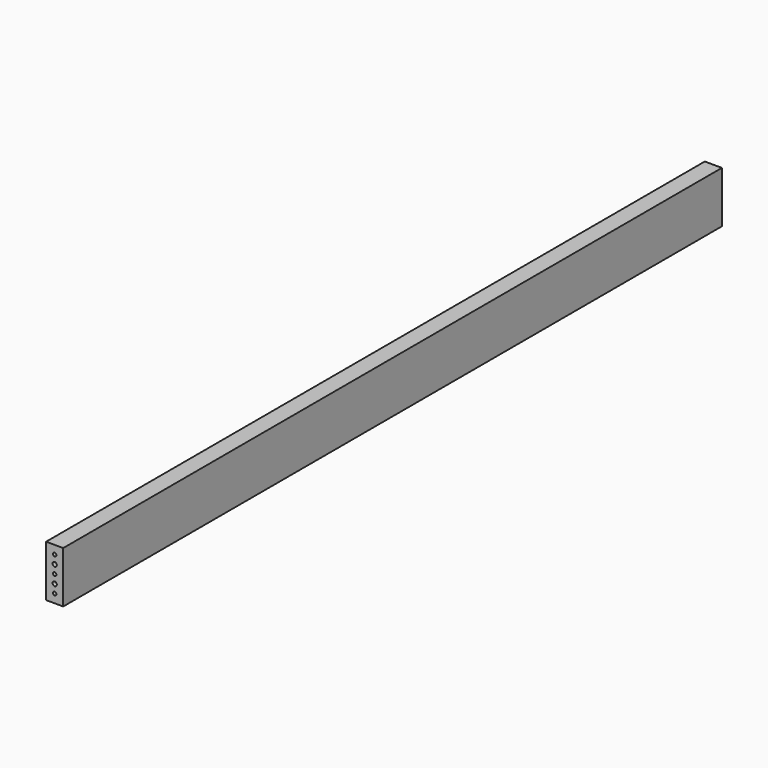
from build123d import *

# Parameters (mm, degrees)
F0_W     = 25.4
F0_H     = 76.2
F1_DEPTH = 1219.2
F3_D     = 5.1054
F3_DEPTH = 12.7
F3_TIP   = 1.5338169022
F4_D     = 6.3373
F4_DEPTH = 12.7
F4_TIP   = 1.9039170005


with BuildPart() as f1:
    # F0 (on Front) → F1 (new body)
    with BuildSketch(Plane.XZ):
        with Locations((12.7, 38.1)):
            Rectangle(F0_W, F0_H)
    extrude(amount=F1_DEPTH)

    # F3
    with Locations(Plane.XZ.offset(1219.2)):
        with Locations((12.7, 63.5), (12.7, 38.1), (12.7, 12.7)):
            Hole(F3_D / 2, depth=F3_DEPTH)
            with Locations((0, 0, -(F3_DEPTH + F3_TIP / 2))):  # 118° drill point
                Cone(0, F3_D / 2, F3_TIP, mode=Mode.SUBTRACT)

    # F4
    with Locations(Plane.XZ.offset(1219.2)):
        with Locations((12.7, 50.8), (12.7, 25.4)):
            Hole(F4_D / 2, depth=F4_DEPTH)
            with Locations((0, 0, -(F4_DEPTH + F4_TIP / 2))):  # 118° drill point
                Cone(0, F4_D / 2, F4_TIP, mode=Mode.SUBTRACT)


solid = f1.part
